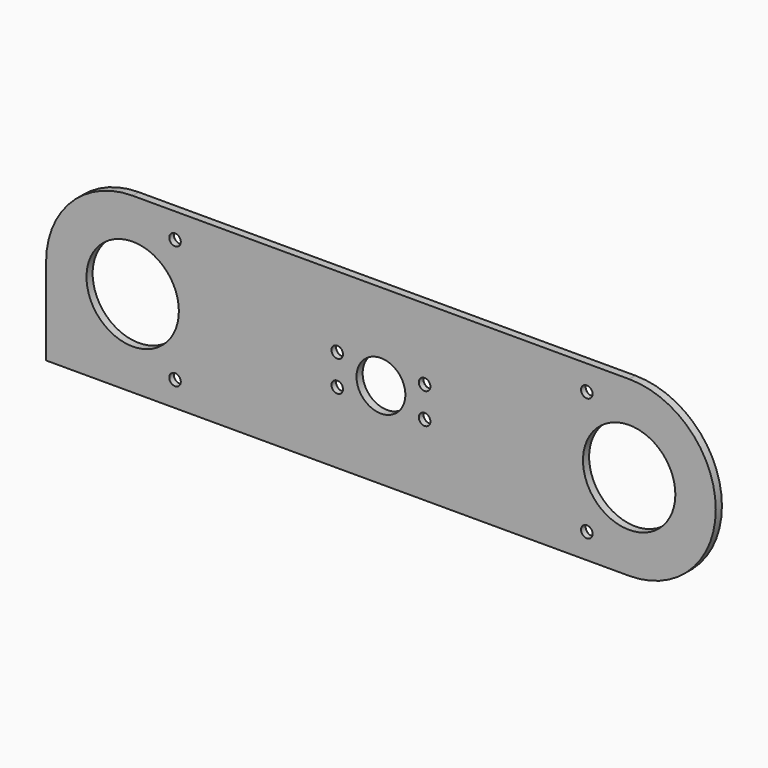
from build123d import *

# Parameters (mm, degrees)
F0_R      = 12
F1_DEPTH  = 2
F3_DEPTH  = 2
F4_R      = 1.5
F5_DEPTH  = 25
F6_SIZE   = 0.5
F7_R      = 6.35
F8_DEPTH  = 25
F9_R      = 1.5
F10_DEPTH = 25
F11_SIZE  = 0.5


with BuildPart() as f1:
    # F0 (on Front) → F1 (new body)
    with BuildSketch(Plane.XZ):
        with BuildLine():
            ThreePointArc((64.5, -22.5), (87, 0), (64.5, 22.5))
            Line((64.5, 22.5), (-64.5, 22.5))
            ThreePointArc((-64.5, 22.5), (-87, 0), (-64.5, -22.5))
            Line((-64.5, -22.5), (64.5, -22.5))
        make_face()
        with Locations((-64.5, 0)):
            Circle(F0_R, mode=Mode.SUBTRACT)
        with Locations((64.5, 0)):
            Circle(F0_R, mode=Mode.SUBTRACT)
    extrude(amount=F1_DEPTH)

    # F2 (on face) → F3 (join)
    with BuildSketch(Plane.XZ.offset(2)):
        Polygon((-87, -22.5), (-64.5, -22.5), (-64.5, -17.4313578755), (-70.5482587218, -14.7617282346), (-78.2682448626, -9.4630774111), (-80.8771923184, 0), (-87, 0), align=None)
    extrude(amount=-F3_DEPTH)

    # F4 (on face) → F5 (cut)
    with BuildSketch(Plane.XZ.offset(2)):
        with Locations((-53.5, 16)):
            Circle(F4_R)
        with Locations((-53.5, -16)):
            Circle(F4_R)
        with Locations((53.5, 16)):
            Circle(F4_R)
        with Locations((53.5, -16)):
            Circle(F4_R)
    extrude(amount=-F5_DEPTH, mode=Mode.SUBTRACT)

    # F6
    f6_edges = [f1.edges().sort_by_distance(p)[0] for p in [
        (-55, 0, 16),
        (-55, 0, -16),
        (52, 0, 16),
        (52, 0, -16),
    ]]
    chamfer(f6_edges, length=F6_SIZE)

    # F7 (on face) → F8 (cut)
    with BuildSketch(Plane.XZ.offset(2)):
        Circle(F7_R)
    extrude(amount=-F8_DEPTH, mode=Mode.SUBTRACT)

    # F9 (on face) → F10 (cut)
    with BuildSketch(Plane.XZ.offset(2)):
        with Locations((-11.35, 4)):
            Circle(F9_R)
        with Locations((-11.35, -4)):
            Circle(F9_R)
        with Locations((11.35, 4)):
            Circle(F9_R)
        with Locations((11.35, -4)):
            Circle(F9_R)
    extrude(amount=-F10_DEPTH, mode=Mode.SUBTRACT)

    # F11
    f11_edges = [f1.edges().sort_by_distance(p)[0] for p in [
        (-12.85, 0, 4),
        (-12.85, 0, -4),
        (9.85, 0, -4),
        (9.85, 0, 4),
    ]]
    chamfer(f11_edges, length=F11_SIZE)


solid = f1.part
